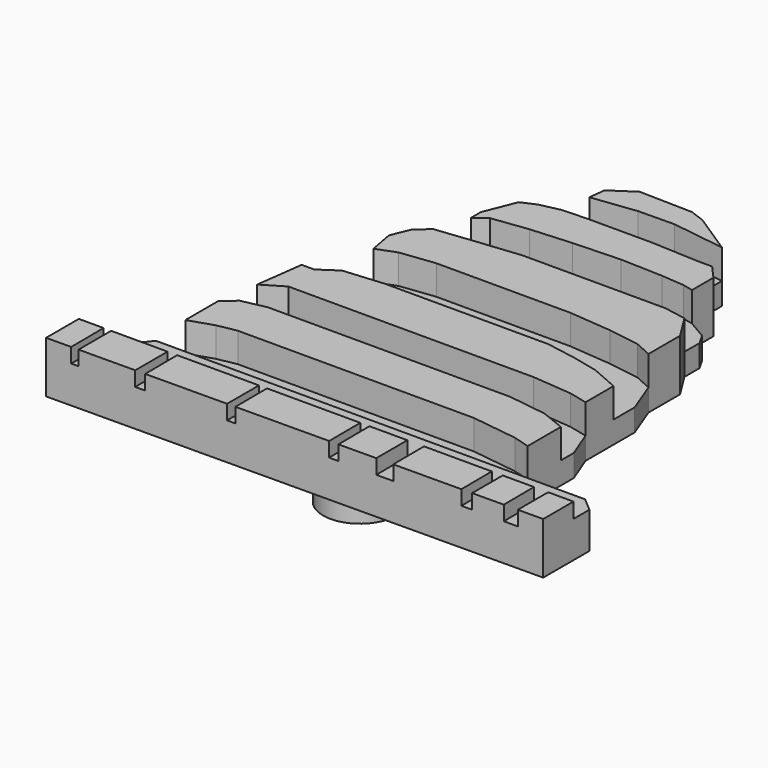
from build123d import *

# Parameters (mm, degrees)
F2_DEPTH  = 0.762
F4_DEPTH  = 1.016
F6_DEPTH  = 1.016
F8_DEPTH  = 0.5258
F0_R      = 12.7
F10_DEPTH = 0.50448
F11_R     = 1.2664455111
F11_R_2   = 1.2714517288
F12_DEPTH = 1.778


with BuildPart() as f2:
    # F1 (on face) → F2 (new body)
    with BuildSketch(Plane.XY):
        Polygon((-8.301156573, -6.202286575), (-8.301156573, -7.6132696122), (8.7365023792, -7.5040537175), (8.7365023792, -5.5138876204), (8.2679493353, -5.1142387092), (5.7544014417, -5.1142387092), (5.7544014417, -2.8919042088), (5.7544014417, -2.4577556178), (5.3745214827, -1.4809214044), (5.3745214827, -0.9925042978), (5.3745214827, 0), (5.3745214827, 0.6355526857), (4.9403728917, 1.7751924461), (4.9403728917, 2.4806838483), (4.9403728917, 3.1319067348), (4.3976870365, 4.000203684), (4.3976870365, 4.6514268033), (4.1806129739, 5.0313062966), (3.529390553, 5.4111862555), (3.529390553, 6.3337520696), (3.0952417292, 6.8221688271), (2.6068247389, 6.8221688271), (2.6068247389, 7.853272371), (2.1184075158, 8.2331513986), (1.1958420509, 8.7758377194), (0.6879131543, 8.9615155011), (0, 9.0042492375), (-1.1481875752, 9.0042492375), (-1.9346952904, 8.4792003036), (-2.0060034003, 7.9075405374), (-2.3858833592, 7.6904660091), (-2.7657633182, 7.0935124531), (-2.8200319503, 6.7136320285), (-3.3084489405, 6.4965579659), (-3.5255230032, 5.8996034786), (-3.7425975315, 5.4111862555), (-3.7425975315, 4.9770376645), (-4.1767461225, 4.3258150108), (-4.1224774905, 3.8373982534), (-4.5566260815, 3.4575182945), (-4.8279687762, 2.8062951751), (-4.6651633456, 1.9379982259), (-5.1535801031, 1.3953124871), (-5.1535801031, 0), (-5.5877286941, 0), (-5.8048027568, -1.6437270679), (-5.5877286941, -2.6748299133), (-6.0218772851, -3.0547098722), (-6.0218772851, -4.4656926766), (-6.7273690365, -5.3882584907), align=None)
    extrude(amount=F2_DEPTH)

    # F3 (on face) → F4 (join)
    with BuildSketch(Plane.XY.offset(0.762)):
        Polygon((-8.301156573, -7.6132696122), (8.7365023792, -7.5040537175), (8.7365023792, -5.5138876204), (8.2679493353, -5.1142387092), (5.7544014417, -5.1142387092), (-6.5178244245, -5.1142387092), (-6.7273690365, -5.3882584907), (-8.301156573, -6.202286575), align=None)
    extrude(amount=F4_DEPTH)

    # F5 (on face) → F6 (join)
    with BuildSketch(Plane.XY.offset(0.762)):
        Polygon((-1.9346952904, 8.4792003036), (-2.0060034003, 7.9075405374), (-0.4768302024, 8.0958995968), (0.7676923415, 8.1118550152), (2.6068247389, 7.853272371), (1.1958420509, 8.7758377194), (0.6879131543, 8.9615155011), (-1.1481875752, 9.0042492375), align=None)
        Polygon((-2.1202382632, 6.8673328497), (-2.8200319503, 6.7136320285), (-3.3084489405, 6.4965579659), (-3.7425975315, 5.4111862555), (-3.7425975315, 4.9770376645), (-3.3328498248, 5.2877464332), (-2.0883274265, 5.4473006167), (-0.7002060302, 5.5430331267), (0.927246525, 5.6068548001), (2.3791892454, 5.5589885451), (3.1769601628, 5.4951668717), (3.529390553, 5.4111862555), (3.529390553, 6.3337520696), (3.0952417292, 6.8221688271), (2.6068247389, 6.8221688271), (0.9432018269, 6.8992436863), (-1.290556509, 6.8992436863), align=None)
        Polygon((-2.7597796666, 3.9888094114), (-4.1224774905, 3.8373982534), (-4.5566260815, 3.4575182945), (-4.8279687762, 2.8062951751), (-4.6651633456, 1.9379982259), (-4.0006320924, 2.1927114576), (-2.8066006489, 2.334858058), (-1.3140613446, 2.334858058), (0.1642632997, 2.334858058), (1.7989494372, 2.334858058), (3.263059305, 2.2069262341), (4.3575884774, 2.0363503136), (4.9403728917, 1.7751924461), (4.9403728917, 3.1319067348), (4.3976870365, 4.000203684), (3.6326404661, 4.1401199996), (2.3959649261, 4.1401199996), (0.8465670398, 4.1401199996), (-1.2998466846, 4.1401199996), align=None)
        Polygon((-5.5877286941, 0), (-5.8048027568, -1.6437270679), (-5.076691974, -1.2083072215), (-3.9773182943, -1.2083072215), (-1.5074934345, -1.2083072215), (0.9020918515, -1.2083072215), (3.3719167113, -1.2083072215), (4.7423685901, -1.3287864858), (5.3745214827, -1.4809214044), (5.3745214827, -0.2745929523), (4.4110501185, 0.1470844581), (3.5074558109, 0.3579231852), (2.4683221709, 0.5386420526), (0, 0.5386420526), (-3.1490232795, 0.5386420526), (-4.53453511, 0.4181628174), (-5.1535801031, 0), align=None)
        Polygon((-5.5877286941, -2.6748299133), (-6.0218772851, -3.0547098722), (-6.0218772851, -4.4656926766), (-5.1821111701, -4.1901692748), (-4.5194751583, -4.0696901269), (-2.0044704434, -4.0696901269), (1.4593084343, -4.0696901269), (3.5978152882, -4.0696901269), (5.1791053265, -4.2805285193), (5.7544014417, -4.4461875223), (5.7544014417, -3.0154963024), (4.9230875447, -2.6841785293), (3.5978152882, -2.4995030768), (1.3388292864, -2.4995030768), (-2.4412076455, -2.4995030768), (-4.7549253743, -2.4995030768), align=None)
    extrude(amount=F6_DEPTH)

    # F7 (on face) → F8 (cut)
    with BuildSketch(Plane.XY.offset(1.778)):
        Polygon((-6.7273690365, -5.3882584907), (-8.301156573, -6.202286575), (8.7365023792, -6.202286575), (8.7365023792, -5.5138876204), (8.2679493353, -5.1142387092), (-6.5178244245, -5.1142387092), align=None)
    extrude(amount=-F8_DEPTH, mode=Mode.SUBTRACT)

    # F9 (on face) + F0 (on Top) → F10 (cut)
    with BuildSketch(Plane.XY.offset(1.778)):
        Polygon((-7.4496113843, -6.202286575), (-7.4406019717, -7.6077532299), (-7.1891224943, -7.60614118), (-7.1891224943, -6.202286575), align=None)
        Polygon((-5.2457139827, -6.202286575), (-5.2457139827, -7.593683418), (-4.905404364, -7.5915019435), (-4.9143096015, -6.202286575), align=None)
        Polygon((-2.0974383224, -6.202286575), (-2.0974383224, -7.5735021394), (-1.8112884347, -7.571667843), (-1.8200665304, -6.202286575), align=None)
        Polygon((7.377400318, -6.202286575), (7.3858004916, -7.5127120734), (7.8655239195, -7.5096369195), (7.8655239195, -6.202286575), align=None)
        Polygon((5.9232353463, -6.202286575), (5.9316952713, -7.522033272), (6.3001448289, -7.519671413), (6.3001448289, -6.202286575), align=None)
        Polygon((3.014677437, -6.202286575), (3.014677437, -7.5407321269), (3.5971800525, -7.5369981313), (3.5886241988, -6.202286575), align=None)
        Polygon((1.3927921775, -6.202286575), (1.4014382575, -7.5510734162), (1.7183985864, -7.5490416168), (1.7097655308, -6.202286575), align=None)
    with BuildSketch(Plane.XY):
        Circle(F0_R)
    extrude(amount=-F10_DEPTH, mode=Mode.SUBTRACT)

    # F11 (on face) → F12 (join)
    with BuildSketch(Plane.XY):
        Circle(F11_R)
        with Locations((0, -4.4713900425)):
            Circle(F11_R_2)
    extrude(amount=-F12_DEPTH)


solid = f2.part
